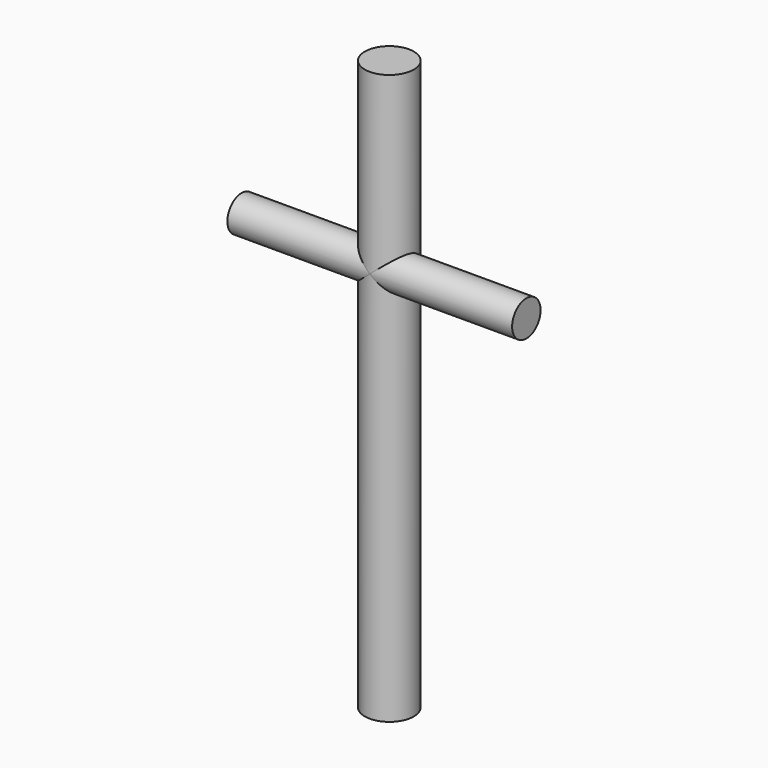
from build123d import *

# Parameters (mm, degrees)
F0_R      = 17.4625
F1_DEPTH  = 279.4
F1_FACE_R = 17.4625
F2_DEPTH  = 127
F3_R      = 12.7
F4_DEPTH  = 101.6
F5_DEPTH  = 101.6


with BuildPart() as f1:
    # F0 (on Top) → F1 (new body)
    with BuildSketch(Plane.XY):
        Circle(F0_R)
    extrude(amount=-F1_DEPTH)

    # F1_face (on face) → F2 (join)
    with BuildSketch(Plane.XY):
        Circle(F1_FACE_R)
    extrude(amount=F2_DEPTH)

    # F3 (on Right) → F4 (join)
    with BuildSketch(Plane.YZ):
        with Locations((-4.7625, 0)):
            Circle(F3_R)
    extrude(amount=F4_DEPTH)

    # F3 (on Right) → F5 (join)
    with BuildSketch(Plane.YZ):
        with Locations((-4.7625, 0)):
            Circle(F3_R)
    extrude(amount=-F5_DEPTH)


solid = f1.part
